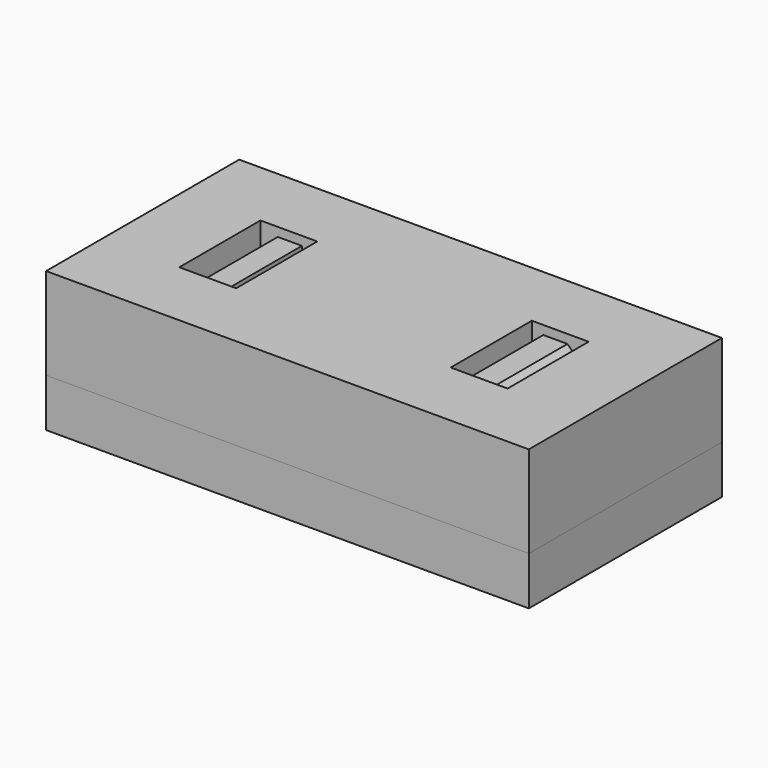
from build123d import *

# Parameters (mm, degrees)
BOX_W            = 20
BOX_H            = 10
BOX_DEPTH        = 2
EXTRUDE_DEPTH    = 2
EXTRUDE001_DEPTH = 2.1
BOX001_W         = 20
BOX001_H         = 10
BOX001_DEPTH     = 3.8


with BuildPart() as cube:
    # Box → Box (new body)
    with BuildSketch(Plane(origin=(-10, -5, 0), x_dir=(1, 0, 0), z_dir=(0, 0, 1))):
        with Locations((10, 5)):
            Rectangle(BOX_W, BOX_H)
    extrude(amount=BOX_DEPTH)


with BuildPart() as fusion:
    # Sketch → Extrude (new body, symmetric)
    with BuildSketch(Plane.XZ):
        Polygon((-10, 0), (-10, 2), (-6.5, 2), (-6.5, 4), (-6.75, 4), (-6.75, 4.75), (-6, 5.5), (-5, 5.5), (-5, 2), (5, 2), (5, 5.5), (6, 5.5), (6.75, 4.75), (6.75, 4), (6.5, 4), (6.5, 2), (10, 2), (10, 0), align=None)
    extrude(amount=EXTRUDE_DEPTH, both=True)

    # Fusion: union Cube
    add(cube.part)


with BuildPart() as extrude001:
    # Sketch001 → Extrude001 (new body, symmetric)
    with BuildSketch(Plane.XZ):
        Polygon((6.55, 0), (6.55, 3.95), (6.8, 3.95), (6.8, 5.8), (4.444162, 5.8), (4.444162, 0), align=None)
    extrude(amount=EXTRUDE001_DEPTH, both=True)


with BuildPart() as fusion001:
    # Part__Mirroring: instance of Extrude001
    add(extrude001.part.mirror(Plane(origin=(0, 0, 0), x_dir=(0, -1, 0), z_dir=(1, 0, 0))))

    # Fusion001: union Extrude001
    add(extrude001.part)


with BuildPart() as cut:
    # Box001 → Box001 (new body)
    with BuildSketch(Plane(origin=(-10, -5, 2), x_dir=(1, 0, 0), z_dir=(0, 0, 1))):
        with Locations((10, 5)):
            Rectangle(BOX001_W, BOX001_H)
    extrude(amount=BOX001_DEPTH)

    # Cut: cut Fusion001
    add(fusion001.part, mode=Mode.SUBTRACT)


solid = Compound([fusion.part, cut.part])
